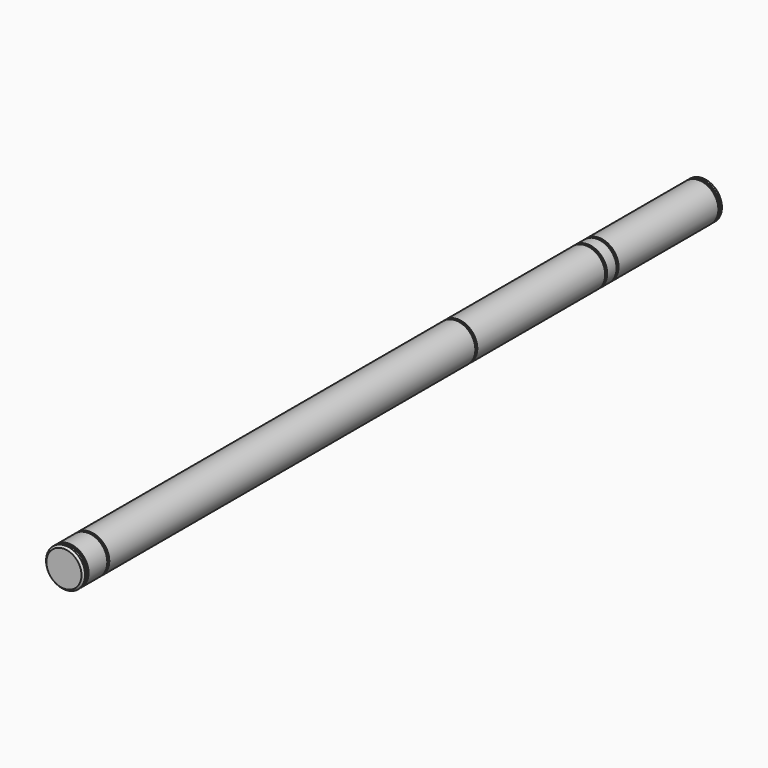
from build123d import *

# Parameters (mm, degrees)
F0_R      = 7.9375
F1_DEPTH  = 1.5875
F2_R      = 7.4676
F3_DEPTH  = 1.016
F4_R      = 7.9375
F5_DEPTH  = 50.8
F6_R      = 7.4676
F7_DEPTH  = 1.016
F8_R      = 7.9375
F9_DEPTH  = 4.7625
F10_R     = 7.4676
F11_DEPTH = 1.016
F12_R     = 7.9375
F13_DEPTH = 65.0875
F14_R     = 7.4676
F15_DEPTH = 1.016
F16_R     = 7.9375
F17_DEPTH = 186.309
F18_R     = 7.4676
F19_DEPTH = 1.016
F20_R     = 7.9375
F21_DEPTH = 9.525
F22_R     = 7.4676
F23_DEPTH = 1.016
F24_R     = 7.9375
F25_DEPTH = 1.5875
F26_SIZE  = 0.79375


with BuildPart() as f1:
    # F0 (on Front) → F1 (new body)
    with BuildSketch(Plane.XZ):
        Circle(F0_R)
    extrude(amount=F1_DEPTH)

    # F2 (on face) → F3 (join)
    with BuildSketch(Plane.XZ.offset(1.5875)):
        Circle(F2_R)
    extrude(amount=F3_DEPTH)

    # F4 (on face) → F5 (join)
    with BuildSketch(Plane.XZ.offset(2.6035)):
        Circle(F4_R)
    extrude(amount=F5_DEPTH)

    # F6 (on face) → F7 (join)
    with BuildSketch(Plane.XZ.offset(53.4035)):
        Circle(F6_R)
    extrude(amount=F7_DEPTH)

    # F8 (on face) → F9 (join)
    with BuildSketch(Plane.XZ.offset(54.4195)):
        Circle(F8_R)
    extrude(amount=F9_DEPTH)

    # F10 (on face) → F11 (join)
    with BuildSketch(Plane.XZ.offset(59.182)):
        Circle(F10_R)
    extrude(amount=F11_DEPTH)

    # F12 (on face) → F13 (join)
    with BuildSketch(Plane.XZ.offset(60.198)):
        Circle(F12_R)
    extrude(amount=F13_DEPTH)

    # F14 (on face) → F15 (join)
    with BuildSketch(Plane.XZ.offset(125.2855)):
        Circle(F14_R)
    extrude(amount=F15_DEPTH)

    # F16 (on face) → F17 (join)
    with BuildSketch(Plane.XZ.offset(126.3015)):
        Circle(F16_R)
    extrude(amount=F17_DEPTH)

    # F18 (on face) → F19 (join)
    with BuildSketch(Plane.XZ.offset(312.6105)):
        Circle(F18_R)
    extrude(amount=F19_DEPTH)

    # F20 (on face) → F21 (join)
    with BuildSketch(Plane.XZ.offset(313.6265)):
        Circle(F20_R)
    extrude(amount=F21_DEPTH)

    # F22 (on face) → F23 (join)
    with BuildSketch(Plane.XZ.offset(323.1515)):
        Circle(F22_R)
    extrude(amount=F23_DEPTH)

    # F24 (on face) → F25 (join)
    with BuildSketch(Plane.XZ.offset(324.1675)):
        Circle(F24_R)
    extrude(amount=F25_DEPTH)

    # F26
    f26_edges = [f1.edges().sort_by_distance(p)[0] for p in [
        (-7.9375, -325.755, 0),
        (-7.9375, 0, 0),
    ]]
    chamfer(f26_edges, length=F26_SIZE)


solid = f1.part
